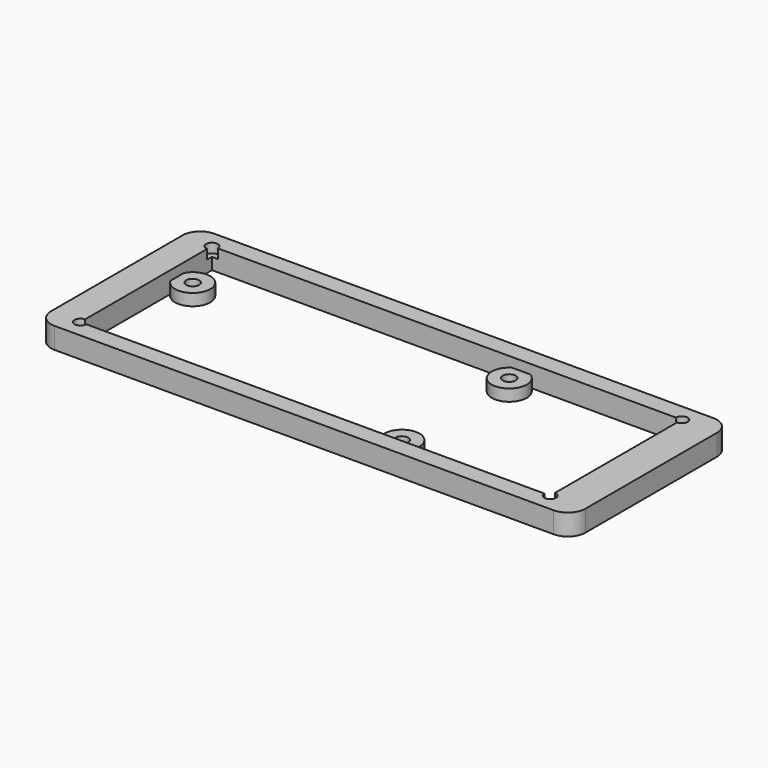
from build123d import *

# Parameters (mm, degrees)
SKETCH013_W     = 80
SKETCH013_H     = 28
PAD007_DEPTH    = 3.6
SKETCH014_R     = 3
SKETCH014_R_2   = 1.1
PAD008_DEPTH    = 2
SKETCH016_R     = 1
POCKET003_DEPTH = 5


with BuildPart() as part:
    # Sketch013 → Pad007 (new body)
    with BuildSketch(Plane.XY):
        with BuildLine():
            Line((0, -3), (85, -3))
            ThreePointArc((85, -3), (87.12132, -2.12132), (88, 0))
            Line((88, 0), (88, 28))
            ThreePointArc((88, 28), (87.12132, 30.12132), (85, 31))
            Line((85, 31), (0, 31))
            ThreePointArc((0, 31), (-2.12132, 30.12132), (-3, 28))
            Line((-3, 28), (-3, 0))
            ThreePointArc((-3, 0), (-2.12132, -2.12132), (0, -3))
        make_face()
        with Locations((42, 14)):
            Rectangle(SKETCH013_W, SKETCH013_H, mode=Mode.SUBTRACT)
    extrude(amount=PAD007_DEPTH)

    # Sketch014 → Pad008 (join)
    with BuildSketch(Plane.XY):
        with Locations((4.637, 20.614)):
            Circle(SKETCH014_R)
        with Locations((4.637, 20.614)):
            Circle(SKETCH014_R_2, mode=Mode.SUBTRACT)
        with Locations((54.675, 25.44)):
            Circle(SKETCH014_R)
        with Locations((54.675, 25.44)):
            Circle(SKETCH014_R_2, mode=Mode.SUBTRACT)
        with Locations((54.675, 2.58)):
            Circle(SKETCH014_R)
        with Locations((54.675, 2.58)):
            Circle(SKETCH014_R_2, mode=Mode.SUBTRACT)
    extrude(amount=PAD008_DEPTH)

    # Sketch016 → Pocket003 (cut)
    with BuildSketch(Plane.XY.offset(2)):
        with Locations((2, 28)):
            Circle(SKETCH016_R)
        with Locations((82, 28)):
            Circle(SKETCH016_R)
        with Locations((82, 0)):
            Circle(SKETCH016_R)
        with Locations((2, 0)):
            Circle(SKETCH016_R)
    extrude(amount=POCKET003_DEPTH, mode=Mode.SUBTRACT)


solid = part.part
